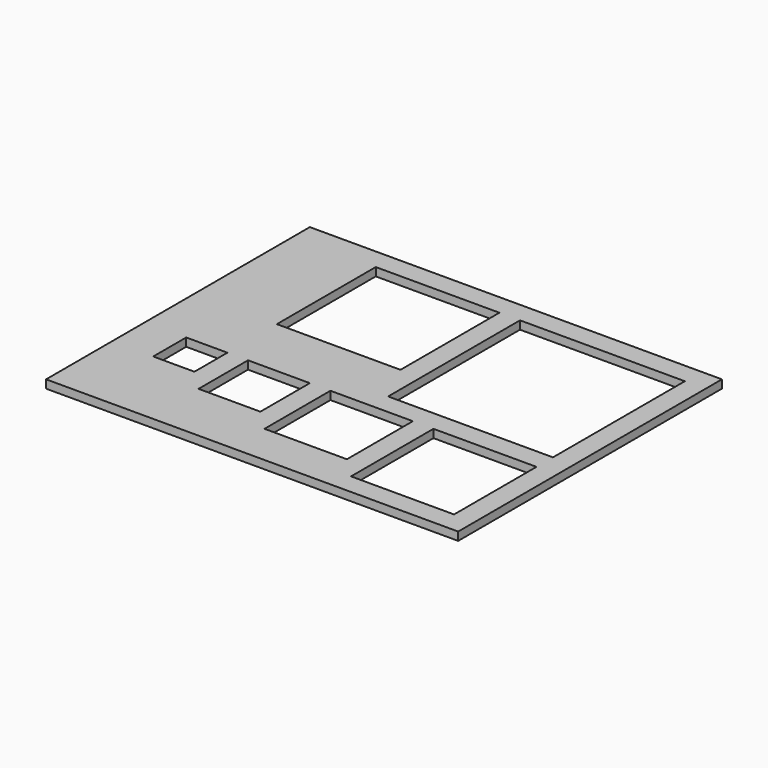
from build123d import *

# Parameters (mm, degrees)
F0_W     = 100
F0_H     = 80
F1_DEPTH = 2
F2_W     = 40
F2_H     = 40
F2_W_2   = 30
F2_H_2   = 30
F2_W_3   = 25
F2_H_3   = 25
F2_W_4   = 20
F2_H_4   = 20
F2_W_5   = 15
F2_H_5   = 15
F2_W_6   = 10
F2_H_6   = 10
F3_DEPTH = 2.001


with BuildPart() as f1:
    # F0 (on Top) → F1 (new body)
    with BuildSketch(Plane.XY):
        with Locations((50, 40)):
            Rectangle(F0_W, F0_H)
    extrude(amount=F1_DEPTH)

    # F2 (on face) → F3 (cut, through all)
    with BuildSketch(Plane.XY.offset(2)):
        with Locations((75, 55)):
            Rectangle(F2_W, F2_H)
        with Locations((35, 60)):
            Rectangle(F2_W_2, F2_H_2)
        with Locations((82.5, 17.5)):
            Rectangle(F2_W_3, F2_H_3)
        with Locations((55, 20)):
            Rectangle(F2_W_4, F2_H_4)
        with Locations((32.5, 22.5)):
            Rectangle(F2_W_5, F2_H_5)
        with Locations((15, 25)):
            Rectangle(F2_W_6, F2_H_6)
    extrude(amount=-F3_DEPTH, mode=Mode.SUBTRACT)


solid = f1.part
